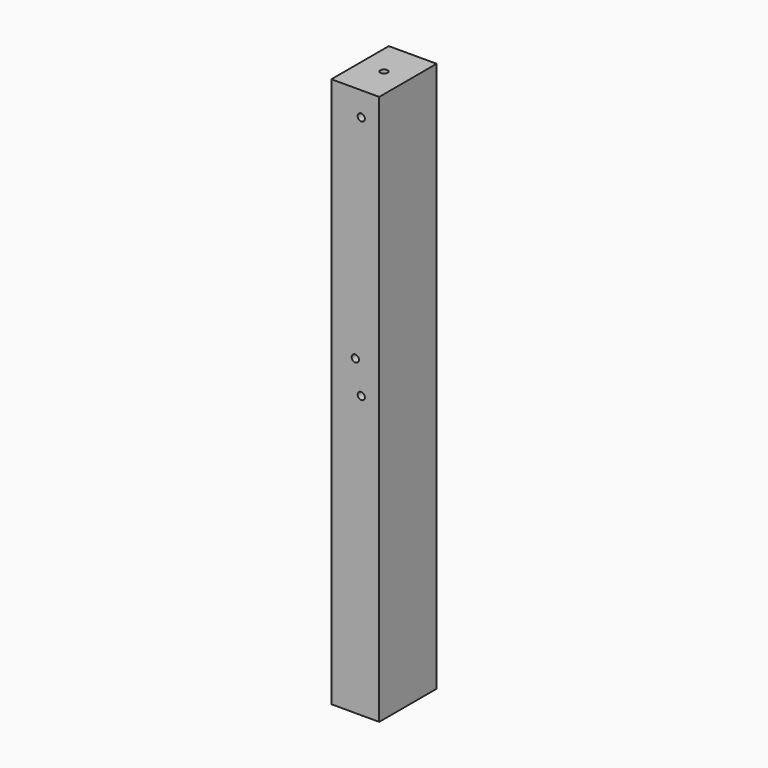
from build123d import *

# Parameters (mm, degrees)
F0_W      = 40
F0_H      = 60
F1_DEPTH  = 460
F2_R      = 3
F3_DEPTH  = 12
F4_R      = 3
F5_DEPTH  = 12
F6_R      = 3
F7_DEPTH  = 12
F8_R      = 3
F9_DEPTH  = 12
F10_R     = 3
F11_DEPTH = 12


with BuildPart() as f1:
    # F0 (on Top) → F1 (new body)
    with BuildSketch(Plane.XY):
        with Locations((20, 30)):
            Rectangle(F0_W, F0_H)
    extrude(amount=F1_DEPTH)

    # F2 (on face) → F3 (cut)
    with BuildSketch(Plane(origin=(0, 0, 0), x_dir=(1, 0, 0), z_dir=(0, 0, -1))):
        with Locations((20, -30)):
            Circle(F2_R)
    extrude(amount=-F3_DEPTH, mode=Mode.SUBTRACT)

    # F4 (on face) → F5 (cut)
    with BuildSketch(Plane.XY.offset(460)):
        with Locations((20, 30)):
            Circle(F4_R)
    extrude(amount=-F5_DEPTH, mode=Mode.SUBTRACT)

    # F6 (on face) → F7 (cut)
    with BuildSketch(Plane.XZ):
        with Locations((20, 261)):
            Circle(F6_R)
    extrude(amount=-F7_DEPTH, mode=Mode.SUBTRACT)

    # F8 (on face) → F9 (cut)
    with BuildSketch(Plane.XZ):
        with Locations((25, 440)):
            Circle(F8_R)
    extrude(amount=-F9_DEPTH, mode=Mode.SUBTRACT)

    # F10 (on face) → F11 (cut)
    with BuildSketch(Plane.XZ):
        with Locations((25, 235)):
            Circle(F10_R)
    extrude(amount=-F11_DEPTH, mode=Mode.SUBTRACT)


solid = f1.part
